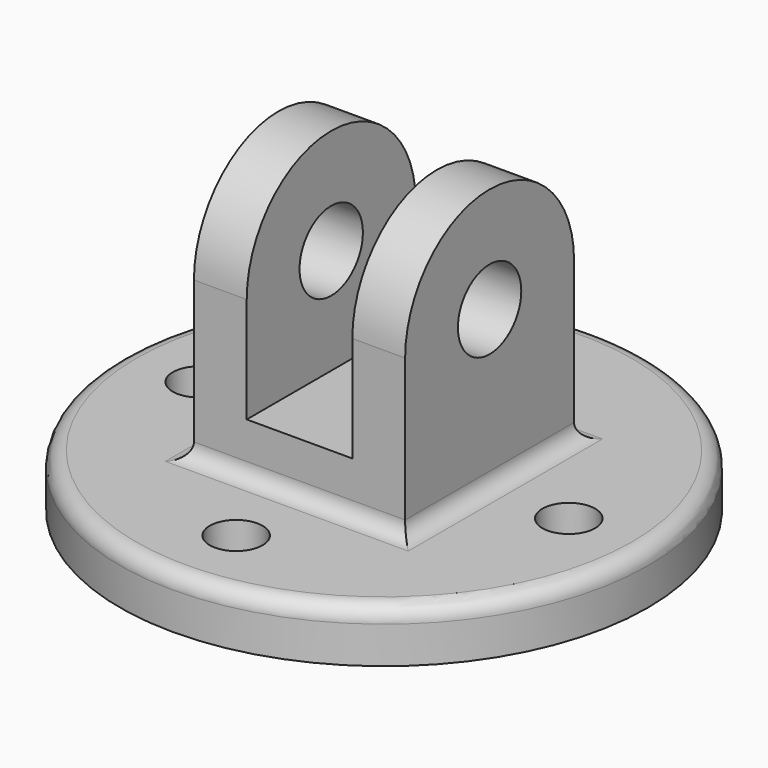
from build123d import *

# Parameters (mm, degrees)
F1_DEPTH  = 50.8
F3_DEPTH  = 12.7
F5_DEPTH  = 12.7
F6_R      = 9.525
F7_DEPTH  = 50.801
F8_R      = 63.5
F9_DEPTH  = 12.7
F10_R     = 6.35
F11_DEPTH = 12.701
F12_R     = 3.81


with BuildPart() as f1:
    # F0 (on Front) → F1 (new body)
    with BuildSketch(Plane.XZ):
        Polygon((0, 38.1), (0, 0), (50.8, 0), (50.8, 38.1), (38.1, 38.1), (38.1, 12.7), (12.7, 12.7), (12.7, 38.1), align=None)
    extrude(amount=F1_DEPTH)

    # F2 (on face) → F3 (join)
    with BuildSketch(Plane.YZ.offset(50.8)):
        with BuildLine():
            Line((-50.8, 38.1), (0, 38.1))
            ThreePointArc((0, 38.1), (-25.4, 63.5), (-50.8, 38.1))
        make_face()
    extrude(amount=-F3_DEPTH)

    # F4 (on face) → F5 (join)
    with BuildSketch(Plane(origin=(0, 0, 0), x_dir=(0, -1, 0), z_dir=(-1, 0, 0))):
        with BuildLine():
            Line((0, 38.1), (50.8, 38.1))
            ThreePointArc((50.8, 38.1), (25.4, 63.5), (0, 38.1))
        make_face()
    extrude(amount=-F5_DEPTH)

    # F6 (on face) → F7 (cut, through all)
    with BuildSketch(Plane.YZ.offset(50.8)):
        with Locations((-25.4, 38.1)):
            Circle(F6_R)
    extrude(amount=-F7_DEPTH, mode=Mode.SUBTRACT)

    # F8 (on face) → F9 (join)
    with BuildSketch(Plane(origin=(0, 0, 0), x_dir=(1, 0, 0), z_dir=(0, 0, -1))):
        with Locations((25.4, 25.4)):
            Circle(F8_R)
    extrude(amount=F9_DEPTH)

    # F10 (on face) → F11 (cut, through all)
    with BuildSketch(Plane.XY):
        with Locations((25.4, 19.05)):
            Circle(F10_R)
        with Locations((69.85, -25.4)):
            Circle(F10_R)
        with Locations((-19.05, -25.4)):
            Circle(F10_R)
        with Locations((25.4, -69.85)):
            Circle(F10_R)
    extrude(amount=-F11_DEPTH, mode=Mode.SUBTRACT)

    # F12
    f12_edges = [f1.edges().sort_by_distance(p)[0] for p in [
        (50.8, -25.4, 0),
        (25.4, -50.8, 0),
        (0, -25.4, 0),
        (25.4, 0, 0),
        (-38.1, -25.4, 0),
    ]]
    fillet(f12_edges, radius=F12_R)


solid = f1.part
